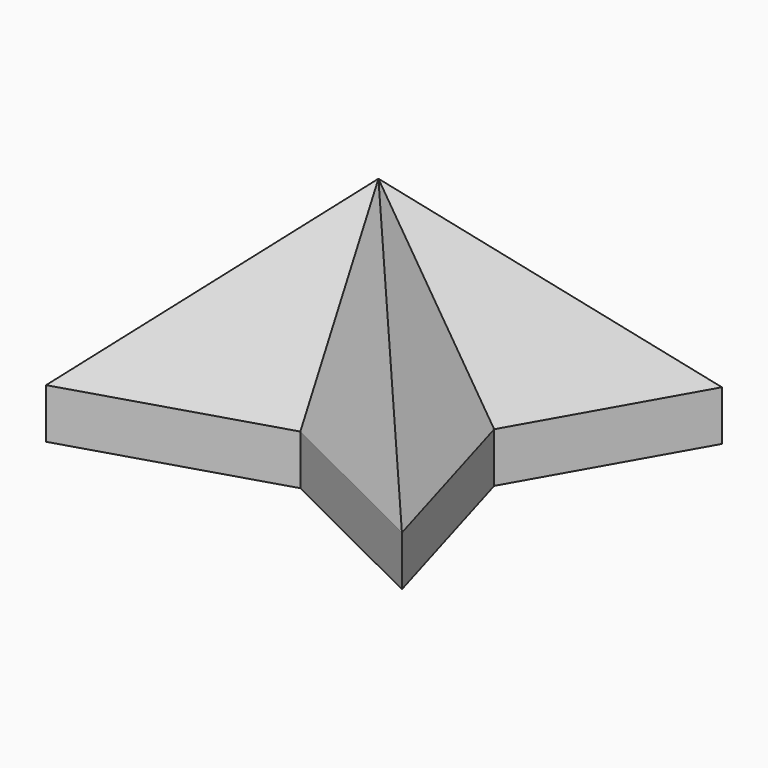
from build123d import *

# Parameters (mm, degrees)
F1_DEPTH = 16.2


with BuildPart() as f1:
    # F0 (on Top) → F1 (new body)
    with BuildSketch(Plane.XY):
        Polygon((0, 18.217213), (-68.565577, 32.561477), (-27.82787, -10.184427), (-66.270493, -52.069675), (0, -31.700823), (54.795083, -58.954921), (37.581969, 0), (68.278693, 54.077871), align=None)
    extrude(amount=F1_DEPTH)

    # F1_face (on face) → F4 section 0
    with BuildSketch(Plane(origin=(3.79635, -5.482497, 16.2), x_dir=(1, 0, 0), z_dir=(0, 0, 1)), mode=Mode.PRIVATE) as f4_s0:
        Polygon((33.785619, 5.482497), (64.482342, 59.560368), (-3.79635, 23.69971), (-72.361928, 38.043974), (-31.62422, -4.70193), (-70.066843, -46.587178), (-3.79635, -26.218326), (50.998732, -53.472424), align=None)
    loft([Vertex(0, 0, 75.6), f4_s0.sketch])


solid = f1.part
